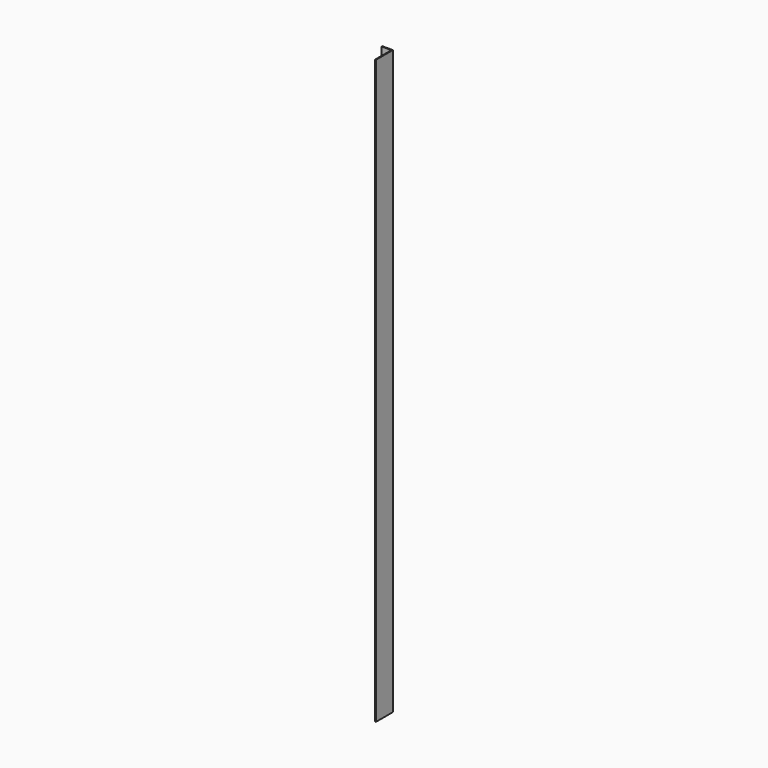
from build123d import *

# Parameters (mm, degrees)
F0_W     = 38.1
F0_H     = 74.6125
F1_DEPTH = 1028.7
F2_T     = -2.778125
F3_R     = 3.175
F4_DEPTH = 74.6135


with BuildPart() as f1:
    # F0 (on Top) → F1 (new body, symmetric)
    with BuildSketch(Plane.XY):
        with Locations((19.05, 37.30625)):
            Rectangle(F0_W, F0_H)
    extrude(amount=F1_DEPTH, both=True)

    # F2
    f2_openings = [f1.faces().sort_by_distance(p)[0] for p in [
        (19.05, 37.30625, 1028.7),
        (19.05, 0, 0),
        (19.05, 37.30625, -1028.7),
        (0, 37.30625, 0),
    ]]
    offset(amount=F2_T, openings=f2_openings)

    # F3 (on face) → F4 (cut, through all)
    with BuildSketch(Plane(origin=(0, 74.6125, 0), x_dir=(-1, 0, 0), z_dir=(0, 1, 0))):
        with Locations((-19.05, 561.975)):
            Circle(F3_R)
        with Locations((-19.05, 511.175)):
            Circle(F3_R)
        with Locations((-19.05, 133.35)):
            Circle(F3_R)
        with Locations((-19.05, -22.225)):
            Circle(F3_R)
        with Locations((-19.05, 28.575)):
            Circle(F3_R)
        with Locations((-19.05, -400.05)):
            Circle(F3_R)
        with Locations((-19.05, -555.625)):
            Circle(F3_R)
        with Locations((-19.05, -504.825)):
            Circle(F3_R)
        with Locations((-19.05, -933.45)):
            Circle(F3_R)
        with Locations((-19.05, 666.75)):
            Circle(F3_R)
        with Locations((-19.05, 1009.65)):
            Circle(F3_R)
    extrude(amount=-F4_DEPTH, mode=Mode.SUBTRACT)


solid = f1.part
